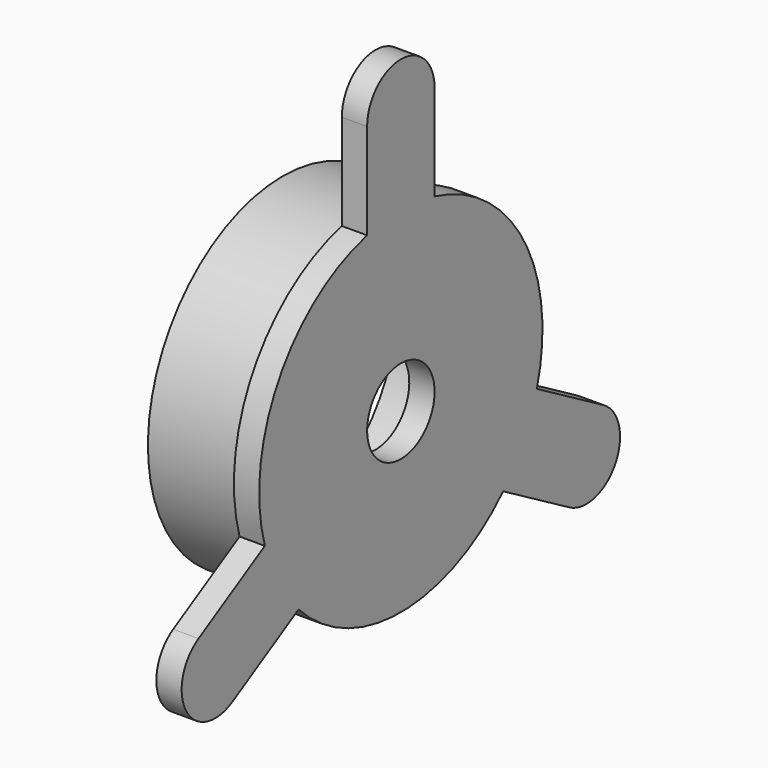
from build123d import *

# Parameters (mm, degrees)
F3_DEPTH = 3


with BuildPart() as f1:
    # F0 (on Front) → F1 (revolve)
    with BuildSketch(Plane.XZ):
        Polygon((-35.3551096618, 26.4047570527), (-46.3551096618, 26.4047570527), (-46.3551096618, 23.4047570527), (-35.3551096618, 23.4047570527), (-35.3551096618, 12.4047570527), (-35.3551096618, 11.4047570527), (-32.3551096618, 11.4047570527), (-32.3551096618, 27.4047570527), (-35.3551096618, 27.4047570527), align=None)
    revolve(axis=Axis((-30.4666860029, 0, 6.4047570527), (1, 0, 0)))

    # F2 (on face) → F3 (join)
    with BuildSketch(Plane(origin=(-35.3551096618, 0, 0), x_dir=(0, -1, 0), z_dir=(-1, 0, 0))):
        with BuildLine():
            Line((5, 26.800835107), (5, 38.1581671536))
            ThreePointArc((5, 38.1581671536), (0, 43.1581671536), (-5, 38.1581671536))
            Line((-5, 38.1581671536), (-5, 26.800835107))
            ThreePointArc((-5, 26.800835107), (0, 27.4047570527), (5, 26.800835107))
        make_face()
        with BuildLine():
            ThreePointArc((-15.1635217327, -8.1234089934), (-18.1865334795, -4.0952429473), (-20.1635217327, 0.5368450444))
            Line((-20.1635217327, 0.5368450444), (-29.9992598042, -5.1418209789))
            ThreePointArc((-29.9992598042, -5.1418209789), (-31.8293868231, -11.9719479978), (-24.9992598042, -13.8020750167))
            Line((-24.9992598042, -13.8020750167), (-15.1635217327, -8.1234089934))
        make_face()
        with BuildLine():
            Line((29.9992598042, -5.1418209789), (20.1635217327, 0.5368450444))
            ThreePointArc((20.1635217327, 0.5368450444), (18.1865334795, -4.0952429473), (15.1635217327, -8.1234089934))
            Line((15.1635217327, -8.1234089934), (24.9992598042, -13.8020750167))
            ThreePointArc((24.9992598042, -13.8020750167), (31.8293868231, -11.9719479978), (29.9992598042, -5.1418209789))
        make_face()
    extrude(amount=-F3_DEPTH)


solid = f1.part
